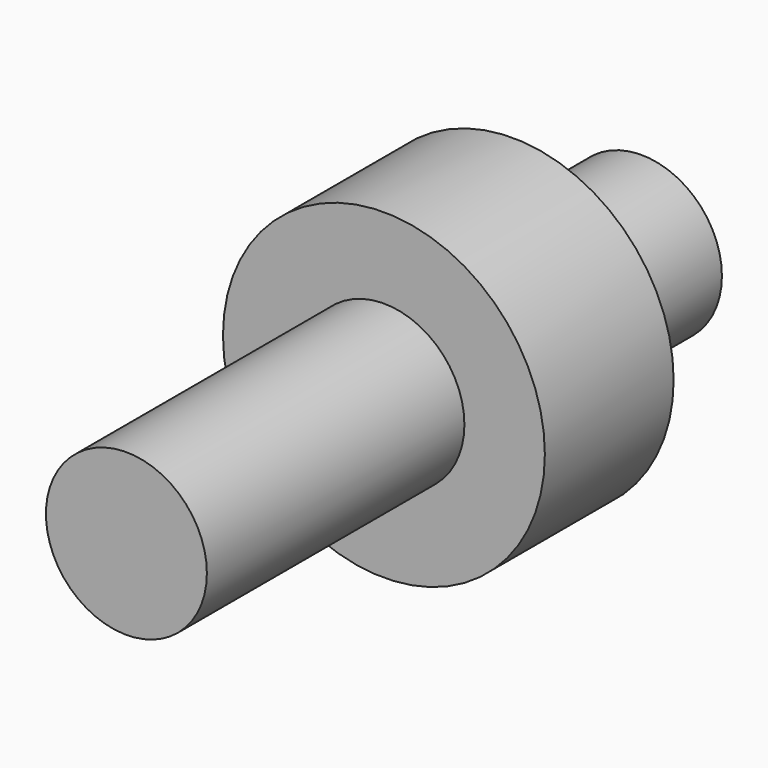
from build123d import *

# Parameters (mm, degrees)
F0_R     = 63.5
F1_DEPTH = 508
F3_R     = 127
F4_DEPTH = 127


with BuildPart() as f1:
    # F0 (on Front) → F1 (new body)
    with BuildSketch(Plane.XZ):
        Circle(F0_R)
    extrude(amount=F1_DEPTH)

    # F3 (on offset) → F4 (join)
    with BuildSketch(Plane.XZ.offset(127)):
        Circle(F3_R)
    extrude(amount=F4_DEPTH)


solid = f1.part
